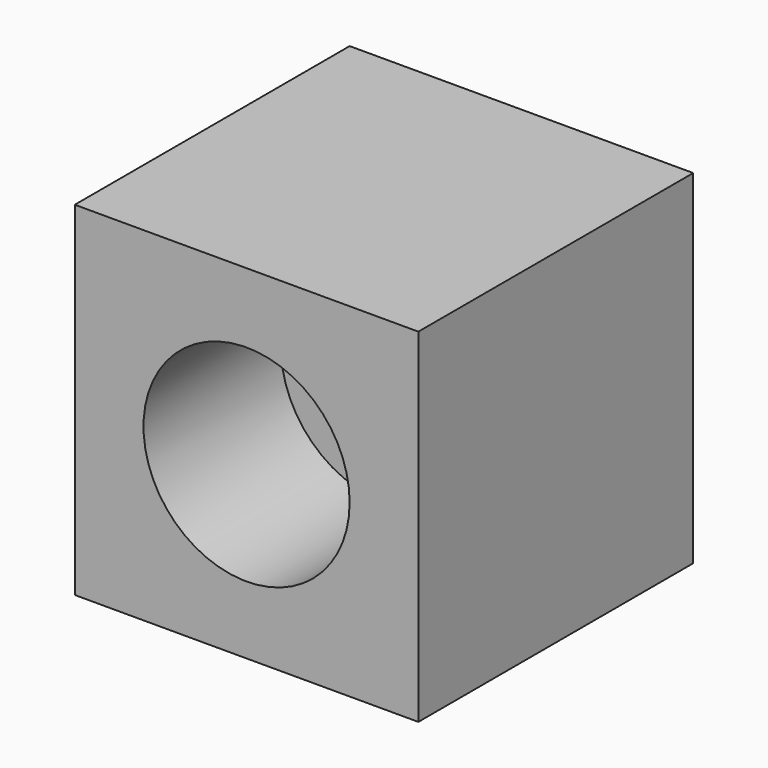
from build123d import *

# Parameters (mm, degrees)
F0_W     = 50
F0_H     = 50
F1_DEPTH = 50
F2_R     = 15
F3_DEPTH = 25


with BuildPart() as f1:
    # F0 (on Top) → F1 (new body)
    with BuildSketch(Plane.XY):
        Rectangle(F0_W, F0_H)
    extrude(amount=F1_DEPTH)

    # F2 (on face) → F3 (cut)
    with BuildSketch(Plane.XZ.offset(25)):
        with Locations((0, 24.854166)):
            Circle(F2_R)
    extrude(amount=-F3_DEPTH, mode=Mode.SUBTRACT)


solid = f1.part
